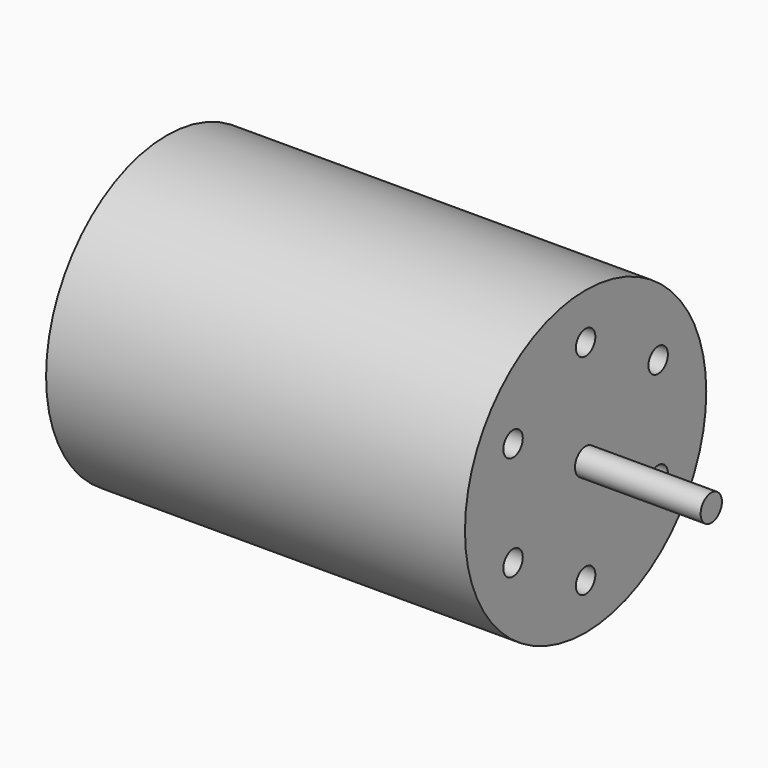
from build123d import *

# Parameters (mm, degrees)
F0_R     = 18
F1_DEPTH = 25
F2_R     = 1.5875
F3_DEPTH = 15
F4_R     = 1.45
F5_DEPTH = 5


with BuildPart() as f1:
    # F0 (on Right) → F1 (new body, symmetric)
    with BuildSketch(Plane.YZ):
        Circle(F0_R)
    extrude(amount=F1_DEPTH, both=True)

    # F4 (on face) → F5 (cut)
    with BuildSketch(Plane.YZ.offset(25)):
        with Locations((-10.8253175473, 6.25)):
            Circle(F4_R)
        with Locations((0, 12.5)):
            Circle(F4_R)
        with Locations((10.8253175473, 6.25)):
            Circle(F4_R)
        with Locations((10.8253175473, -6.25)):
            Circle(F4_R)
        with Locations((0, -12.5)):
            Circle(F4_R)
        with Locations((-10.8253175473, -6.25)):
            Circle(F4_R)
    extrude(amount=-F5_DEPTH, mode=Mode.SUBTRACT)


with BuildPart() as f3:
    # F2 (on face) → F3 (new body)
    with BuildSketch(Plane.YZ.offset(25)):
        Circle(F2_R)
    extrude(amount=F3_DEPTH)


solid = Compound([f1.part, f3.part])
